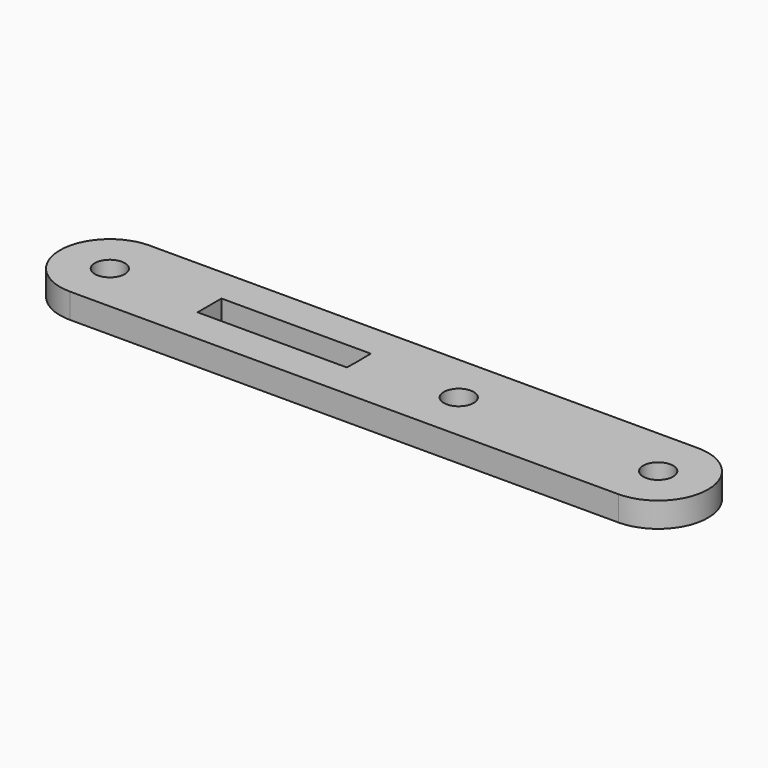
from build123d import *

# Parameters (mm, degrees)
F0_R     = 1.5
F1_DEPTH = 2.5


with BuildPart() as f1:
    # F0 (on Top) → F1 (new body)
    with BuildSketch(Plane.XY):
        with BuildLine():
            Line((-16.842703, -5), (38.157297, -5))
            ThreePointArc((38.157297, -5), (43.157297, 0), (38.157297, 5))
            Line((38.157297, 5), (-16.842703, 5))
            ThreePointArc((-16.842703, 5), (-20.378237, 3.535534), (-21.842703, 0))
            ThreePointArc((-21.842703, 0), (-20.378237, -3.535534), (-16.842703, -5))
        make_face()
        with Locations((-16.842703, 0)):
            Circle(F0_R, mode=Mode.SUBTRACT)
        Polygon((-6.842703, -1.499771), (-6.842703, 0), (-6.842703, 1.499771), (8.131084, 1.499771), (8.157297, 0), (8.131084, -1.499771), align=None, mode=Mode.SUBTRACT)
        with Locations((18.157297, 0)):
            Circle(F0_R, mode=Mode.SUBTRACT)
        with BuildLine():
            ThreePointArc((36.657297, 0), (38.157297, 1.5), (39.657297, 0))
            ThreePointArc((39.657297, 0), (38.157297, -1.5), (36.657297, 0))
        make_face(mode=Mode.SUBTRACT)
    extrude(amount=F1_DEPTH)


solid = f1.part
